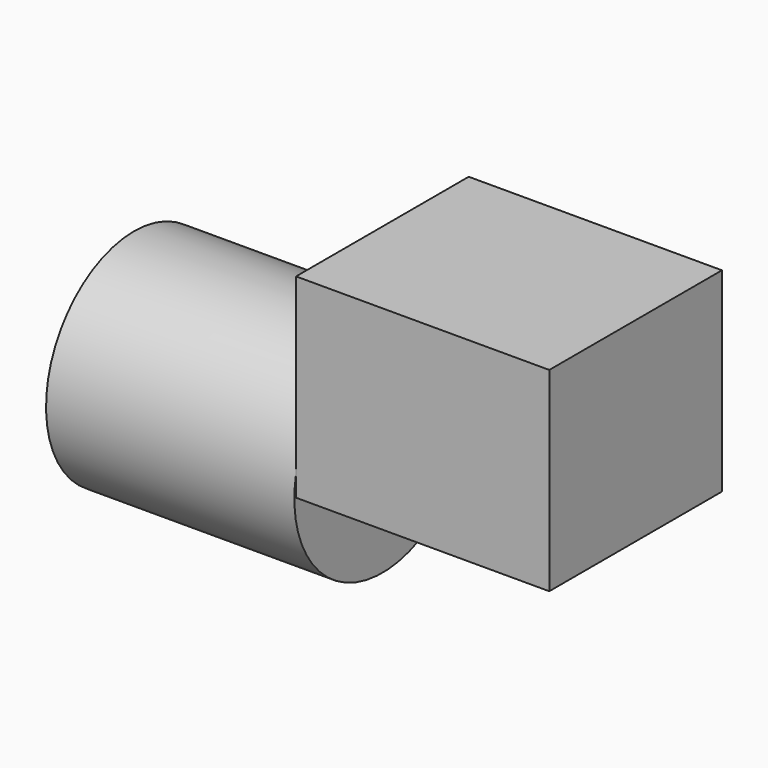
from build123d import *

# Parameters (mm, degrees)
F1_DEPTH = 25
F0_W     = 57.5316473842
F0_H     = 25.4905093461


with BuildPart() as f1:
    # F0 (on Front) → F1 (new body, symmetric)
    with BuildSketch(Plane.XZ):
        Polygon((0, 25.4905093461), (0, 0), (58.6708895862, 0), (58.6708895862, 45.1424047351), (0, 45.1424047351), align=None)
    extrude(amount=F1_DEPTH, both=True)

    # F0 (on Front) → F2 (revolve)
    with BuildSketch(Plane.XZ):
        with Locations((-28.7658236921, 12.7452546731)):
            Rectangle(F0_W, F0_H)
    revolve(axis=Axis((-28.7658236921, 0, 0), (-1, 0, 0)))


solid = f1.part
